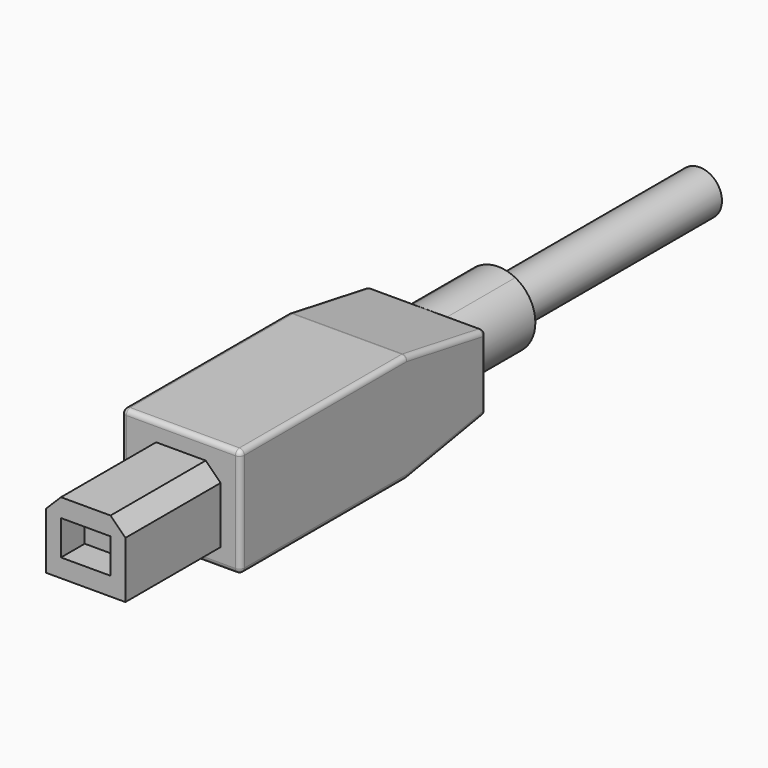
from build123d import *

# Parameters (mm, degrees)
F0_W          = 8
F0_H          = 7.2
F0_W_2        = 5
F0_H_2        = 3.5
F1_DEPTH      = 12
F2_DEPTH      = 9
F3_SIZE       = 1.5
F0_W_3        = 12
F0_H_3        = 11
F4_DEPTH      = 31
F5_SIZE2      = 1.75
F5_SIZE       = 10
F5_2_SIZE2    = 1.75
F5_2_SIZE     = 10
F6_R          = 0.5
F8_DEPTH      = 9
F8_DEPTH_BACK = 0.2288594728
F9_R          = 2.25
F10_DEPTH     = 25.4


with BuildPart() as f1:
    # F0 (on Front) → F1 (new body)
    with BuildSketch(Plane.XZ):
        Rectangle(F0_W, F0_H)
        Rectangle(F0_W_2, F0_H_2, mode=Mode.SUBTRACT)
    extrude(amount=F1_DEPTH)

    # F0 (on Front) → F2 (join)
    with BuildSketch(Plane.XZ):
        Rectangle(F0_W_2, F0_H_2)
    extrude(amount=F2_DEPTH)

    # F3
    f3_edges = [f1.edges().sort_by_distance(p)[0] for p in [
        (-4, -6, 3.6),
        (4, -6, 3.6),
    ]]
    chamfer(f3_edges, length=F3_SIZE)

    # F0 (on Front) → F4 (join)
    with BuildSketch(Plane.XZ):
        Rectangle(F0_W_3, F0_H_3)
        Rectangle(F0_W, F0_H, mode=Mode.SUBTRACT)
        Rectangle(F0_W, F0_H)
        Rectangle(F0_W_2, F0_H_2, mode=Mode.SUBTRACT)
        Rectangle(F0_W_2, F0_H_2)
    extrude(amount=-F4_DEPTH)

    # F5
    f5_edges = [f1.edges().sort_by_distance(p)[0] for p in [
        (0, 31, 5.5),
    ]]
    f5_side = f1.faces().sort_by_distance((0, 15.5, 5.5))[0]
    chamfer(f5_edges, length=F5_SIZE, length2=F5_SIZE2, reference=f5_side)

    # F5#2
    f5_2_edges = [f1.edges().sort_by_distance(p)[0] for p in [
        (0, 31, -5.5),
    ]]
    f5_2_side = f1.faces().sort_by_distance((0, 15.5, -5.5))[0]
    chamfer(f5_2_edges, length=F5_2_SIZE, length2=F5_2_SIZE2, reference=f5_2_side)

    # F6
    f6_edges = [f1.edges().sort_by_distance(p)[0] for p in [
        (-6, 31, 0),
        (-6, 26, -4.625),
        (-6, 26, 4.625),
        (-6, 10.5, -5.5),
        (-6, 10.5, 5.5),
        (-6, 0, 0),
        (6, 31, 0),
        (6, 26, -4.625),
        (6, 26, 4.625),
        (6, 10.5, -5.5),
        (6, 10.5, 5.5),
        (6, 0, 0),
        (0, 21, 5.5),
        (0, 0, 5.5),
        (0, 21, -5.5),
        (0, 0, -5.5),
        (0, 31, -3.75),
        (0, 31, 3.75),
    ]]
    fillet(f6_edges, radius=F6_R)

    # F7 (on face) → F8 (join, two sides)
    with BuildSketch(Plane(origin=(0, 31, 0), x_dir=(-1, 0, 0), z_dir=(0, 1, 0))) as f8_sk:
        with BuildLine():
            Line((-1.7246031672, 3.3299014874), (1.7246031672, 3.3299014874))
            ThreePointArc((1.7246031672, 3.3299014874), (0, 3.75), (-1.7246031672, 3.3299014874))
        make_face()
        with BuildLine():
            ThreePointArc((1.7246031672, -3.3299014874), (3.203885288, -1.9487480754), (3.75, 0))
            ThreePointArc((3.75, 0), (3.203885288, 1.9487480754), (1.7246031672, 3.3299014874))
            Line((1.7246031672, 3.3299014874), (-1.7246031672, 3.3299014874))
            ThreePointArc((-1.7246031672, 3.3299014874), (-3.75, 0), (-1.7246031672, -3.3299014874))
            Line((-1.7246031672, -3.3299014874), (1.7246031672, -3.3299014874))
        make_face()
        with BuildLine():
            ThreePointArc((-1.7246031672, -3.3299014874), (0, -3.75), (1.7246031672, -3.3299014874))
            Line((1.7246031672, -3.3299014874), (-1.7246031672, -3.3299014874))
        make_face()
    extrude(amount=F8_DEPTH)
    extrude(f8_sk.sketch, amount=-F8_DEPTH_BACK)

    # F9 (on face) → F10 (join)
    with BuildSketch(Plane(origin=(0, 40, 0), x_dir=(-1, 0, 0), z_dir=(0, 1, 0))):
        Circle(F9_R)
    extrude(amount=F10_DEPTH)


solid = f1.part
